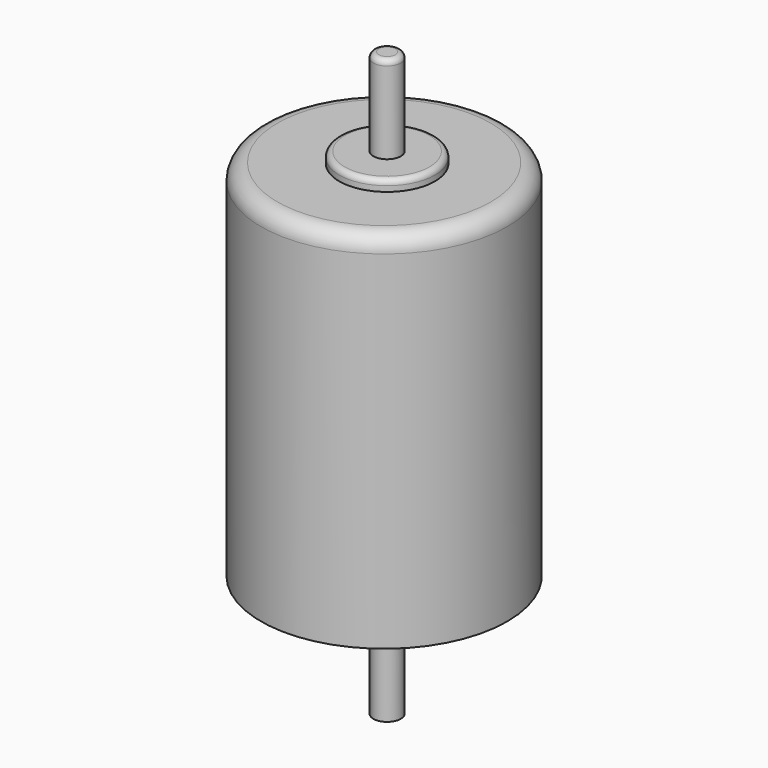
from build123d import *

# Parameters (mm, degrees)
SKETCH_R     = 22.5
PAD_DEPTH    = 66.5
FILLET_R     = 3
SKETCH001_R  = 8.75
PAD001_DEPTH = 2
FILLET001_R  = 1
SKETCH002_R  = 2.5
PAD002_DEPTH = 16
FILLET002_R  = 1
SKETCH003_R  = 8.75
PAD003_DEPTH = 2
FILLET003_R  = 1
SKETCH004_R  = 2.5
PAD004_DEPTH = 20


with BuildPart() as part:
    # Sketch → Pad (new body)
    with BuildSketch(Plane.XY):
        with Locations((-0.540205, 0)):
            Circle(SKETCH_R)
    extrude(amount=PAD_DEPTH)

    # Fillet
    fillet_edges = [part.edges().sort_by_distance(p)[0] for p in [
        (-23.040205, 0, 66.5),
    ]]
    fillet(fillet_edges, radius=FILLET_R)

    # Sketch001 (on Face4 of Fillet) → Pad001 (join)
    with BuildSketch(Plane.XY.offset(66.5)):
        Circle(SKETCH001_R)
    extrude(amount=PAD001_DEPTH)

    # Fillet001
    fillet001_edges = [part.edges().sort_by_distance(p)[0] for p in [
        (-8.75, 0, 68.5),
    ]]
    fillet(fillet001_edges, radius=FILLET001_R)

    # Sketch002 (on Face4 of Fillet001) → Pad002 (join)
    with BuildSketch(Plane.XY.offset(68.5)):
        Circle(SKETCH002_R)
    extrude(amount=PAD002_DEPTH)

    # Fillet002
    fillet002_edges = [part.edges().sort_by_distance(p)[0] for p in [
        (-2.5, 0, 84.5),
    ]]
    fillet(fillet002_edges, radius=FILLET002_R)

    # Sketch003 (on Face10 of Fillet002) → Pad003 (join)
    with BuildSketch(Plane(origin=(0, 0, 0), x_dir=(1, 0, 0), z_dir=(0, 0, -1))):
        Circle(SKETCH003_R)
    extrude(amount=PAD003_DEPTH)

    # Fillet003
    fillet003_edges = [part.edges().sort_by_distance(p)[0] for p in [
        (-8.75, 0, -2),
    ]]
    fillet(fillet003_edges, radius=FILLET003_R)

    # Sketch004 (on Face4 of Fillet003) → Pad004 (join)
    with BuildSketch(Plane(origin=(0, 0, -2), x_dir=(1, 0, 0), z_dir=(0, 0, -1))):
        Circle(SKETCH004_R)
    extrude(amount=PAD004_DEPTH)


solid = part.part
